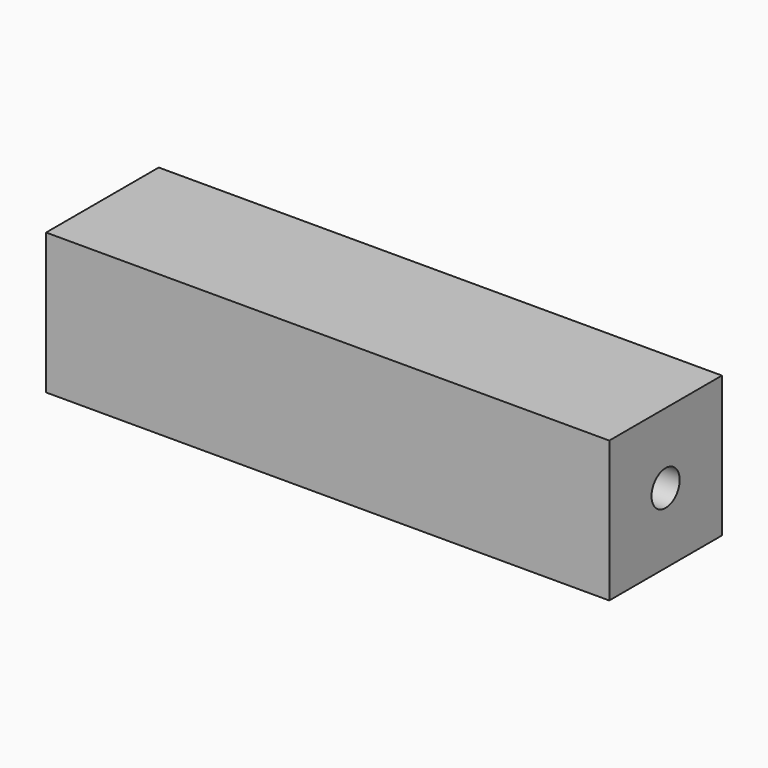
from build123d import *

# Parameters (mm, degrees)
F0_W     = 10
F0_H     = 10
F1_DEPTH = 40
F3_D     = 2.5
F3_DEPTH = 10
F3_TIP   = 0.7510757738
F5_D     = 2.5
F5_DEPTH = 10
F5_TIP   = 0.7510757738


with BuildPart() as f1:
    # F0 (on Right) → F1 (new body)
    with BuildSketch(Plane.YZ):
        with Locations((-5, 5)):
            Rectangle(F0_W, F0_H)
    extrude(amount=F1_DEPTH)

    # F3
    with Locations(Plane.YZ.offset(40)):
        with Locations((-5, 5)):
            Hole(F3_D / 2, depth=F3_DEPTH)
            with Locations((0, 0, -(F3_DEPTH + F3_TIP / 2))):  # 118° drill point
                Cone(0, F3_D / 2, F3_TIP, mode=Mode.SUBTRACT)

    # F5
    with Locations(Plane(origin=(0, 0, 0), x_dir=(0, -1, 0), z_dir=(-1, 0, 0))):
        with Locations((5, 5)):
            Hole(F5_D / 2, depth=F5_DEPTH)
            with Locations((0, 0, -(F5_DEPTH + F5_TIP / 2))):  # 118° drill point
                Cone(0, F5_D / 2, F5_TIP, mode=Mode.SUBTRACT)


solid = f1.part
